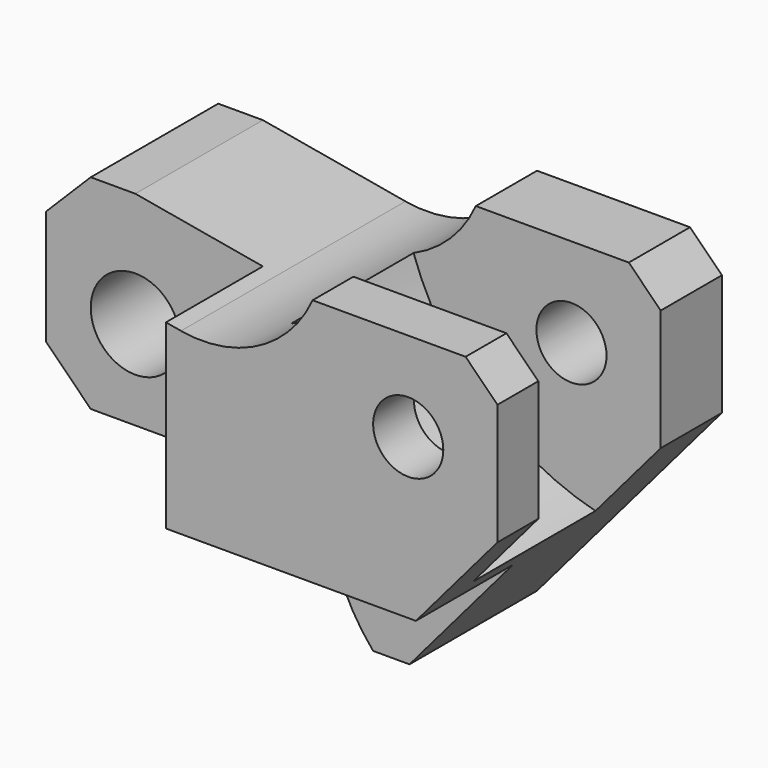
from build123d import *

# Parameters (mm, degrees)
F0_R     = 7
F1_DEPTH = 22
F2_R     = 7
F3_DEPTH = 19
F2_R_2   = 5.5
F4_DEPTH = 44.001
F7_DEPTH = 24


with BuildPart() as f1:
    # F0 (on Front) → F1 (new body, symmetric)
    with BuildSketch(Plane.XZ):
        with BuildLine():
            Line((-7, 18), (-14, 11))
            Line((-14, 11), (-14, -7))
            Line((-14, -7), (-7, -14))
            Line((-7, -14), (25.575539, -14))
            ThreePointArc((25.575539, -14), (28.840775, -15.213414), (30.521178, -18.264706))
            ThreePointArc((30.521178, -18.264706), (32.858008, -26.115672), (37.29698, -33))
            Line((37.29698, -33), (43, -33))
            Line((43, -33), (72, 1))
            Line((72, 1), (72, 20))
            Line((72, 20), (67, 25))
            Line((67, 25), (43, 25))
            ThreePointArc((43, 25), (34.561099, 15.982044), (22.361381, 14.057085))
            Line((22.361381, 14.057085), (0, 18))
            Line((0, 18), (-7, 18))
        make_face()
        Circle(F0_R, mode=Mode.SUBTRACT)
    extrude(amount=F1_DEPTH, both=True)

    # F2 (on face) → F3 (cut)
    with BuildSketch(Plane.XZ.offset(22)):
        Polygon((20, -14), (20, 14.47346), (0, 18), (-7, 18), (-14, 11), (-14, -7), (-7, -14), align=None)
        Circle(F2_R, mode=Mode.SUBTRACT)
        with BuildLine():
            Line((59.205882, -14), (25.575539, -14))
            ThreePointArc((25.575539, -14), (28.840775, -15.213414), (30.521178, -18.264706))
            ThreePointArc((30.521178, -18.264706), (32.858008, -26.115672), (37.29698, -33))
            Line((37.29698, -33), (43, -33))
            Line((43, -33), (59.205882, -14))
        make_face()
    extrude(amount=-F3_DEPTH, mode=Mode.SUBTRACT)

    # F2 (on face) → F4 (cut, through all)
    with BuildSketch(Plane.XZ.offset(22)):
        with Locations((58, 11)):
            Circle(F2_R_2)
    extrude(amount=-F4_DEPTH, mode=Mode.SUBTRACT)

    # F6 (on offset) → F7 (cut)
    with BuildSketch(Plane.XZ.offset(-10)):
        with BuildLine():
            Line((72, 25), (31.167462, 25))
            ThreePointArc((31.167462, 25), (40.759308, 2.149677), (61.764706, -11))
            Line((61.764706, -11), (72, 0))
            Line((72, 0), (72, 25))
        make_face()
    extrude(amount=F7_DEPTH, mode=Mode.SUBTRACT)


solid = f1.part
